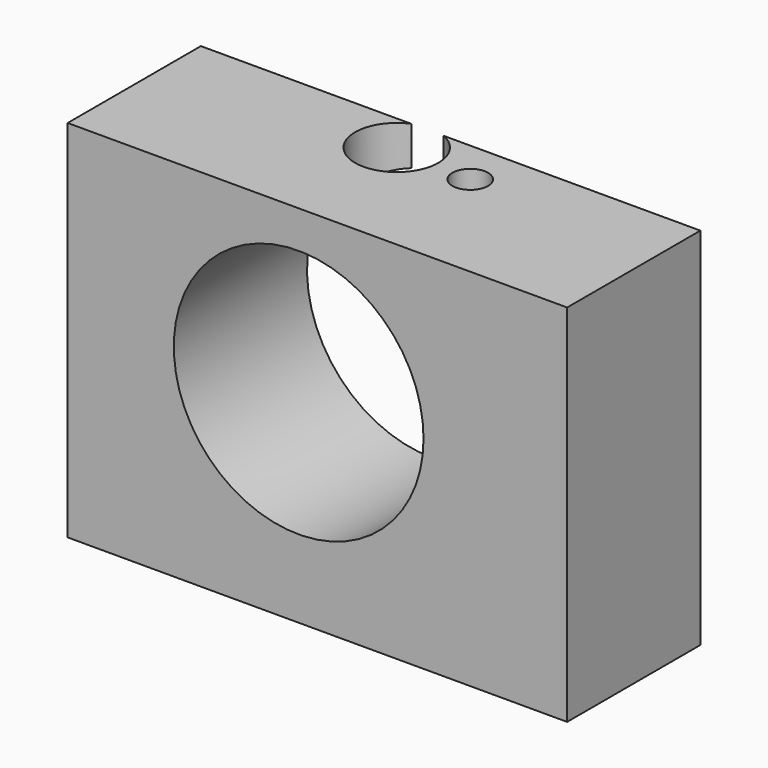
from build123d import *

# Parameters (mm, degrees)
F0_W          = 152.4
F0_H          = 111.3182650085
F1_DEPTH      = 25.4
F1_DEPTH_BACK = 25.4
F2_R          = 38.1
F3_DEPTH      = 50.801
F4_R          = 12.7
F4_R_2        = 5.4393571469
F5_DEPTH      = 25.4


with BuildPart() as f1:
    # F0 (on Front) → F1 (new body, two sides)
    with BuildSketch(Plane.XZ) as f1_sk:
        with Locations((5.7149976492, -6.166184321)):
            Rectangle(F0_W, F0_H)
    extrude(amount=F1_DEPTH)
    extrude(f1_sk.sketch, amount=-F1_DEPTH_BACK)

    # F2 (on face) → F3 (cut, through all)
    with BuildSketch(Plane.XZ.offset(25.4)):
        Circle(F2_R)
    extrude(amount=-F3_DEPTH, mode=Mode.SUBTRACT)

    # F4 (on face) → F5 (cut)
    with BuildSketch(Plane.XY.offset(49.4929481832)):
        with Locations((-1.347124782, 13.6859212071)):
            Circle(F4_R)
        with Locations((22.58563655, 11.8023242822)):
            Circle(F4_R_2)
    extrude(amount=-F5_DEPTH, mode=Mode.SUBTRACT)


solid = f1.part
